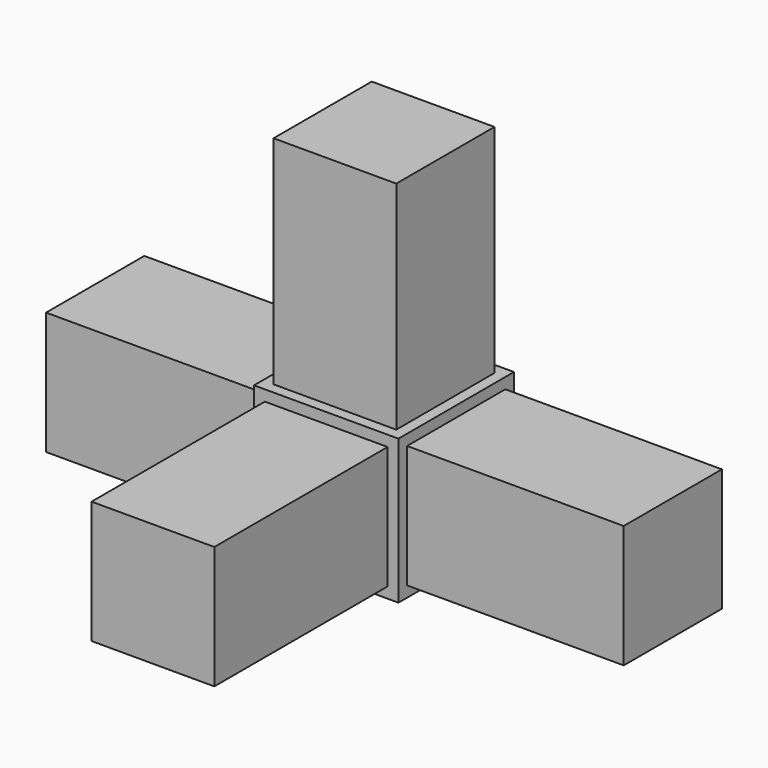
from build123d import *

# Parameters (mm, degrees)
F0_W      = 20
F0_H      = 20
F1_DEPTH  = 20
F3_W      = 17
F3_H      = 17
F4_DEPTH  = 30
F5_W      = 17
F5_H      = 17
F6_DEPTH  = 30
F7_W      = 17
F7_H      = 17
F8_DEPTH  = 30
F9_W      = 17
F9_H      = 17
F10_DEPTH = 30


with BuildPart() as f1:
    # F0 (on Front) → F1 (new body)
    with BuildSketch(Plane.XZ):
        Rectangle(F0_W, F0_H)
    extrude(amount=F1_DEPTH)


with BuildPart() as f1_1:
    # F2: moved
    add(f1.part.moved(Location((0, 10, 0))))

    # F3 (on face) → F4 (join)
    with BuildSketch(Plane.XZ.offset(10)):
        Rectangle(F3_W, F3_H)
    extrude(amount=F4_DEPTH)

    # F5 (on face) → F6 (join)
    with BuildSketch(Plane.YZ.offset(10)):
        Rectangle(F5_W, F5_H)
    extrude(amount=F6_DEPTH)

    # F7 (on face) → F8 (join)
    with BuildSketch(Plane.XY.offset(10)):
        Rectangle(F7_W, F7_H)
    extrude(amount=F8_DEPTH)

    # F9 (on face) → F10 (join)
    with BuildSketch(Plane(origin=(-10, 0, 0), x_dir=(0, -1, 0), z_dir=(-1, 0, 0))):
        Rectangle(F9_W, F9_H)
    extrude(amount=F10_DEPTH)


solid = f1_1.part
